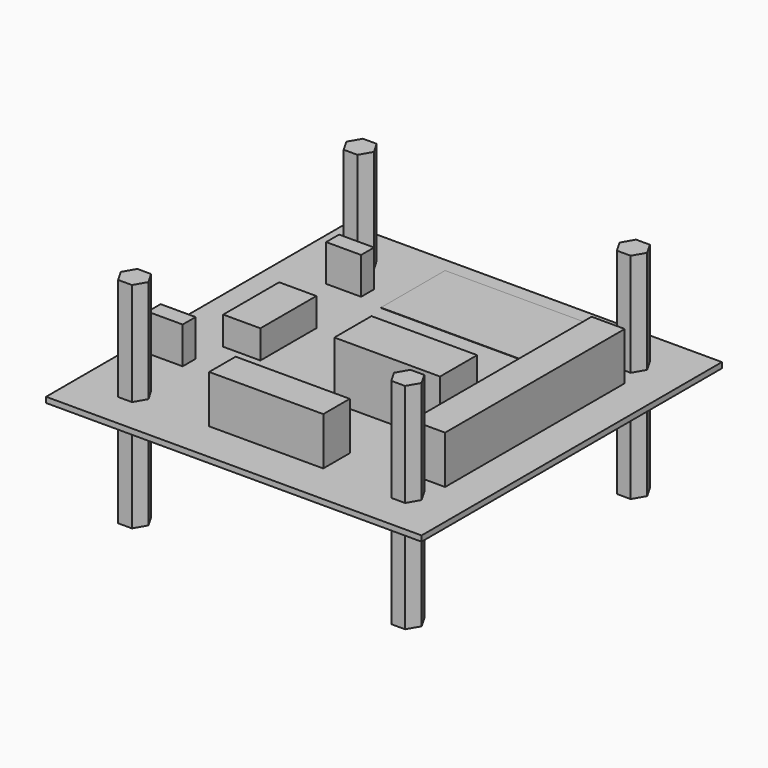
from build123d import *

# Parameters (mm, degrees)
F0_W     = 102
F0_H     = 102
F0_W_2   = 9.5
F0_H_2   = 4.4
F0_W_3   = 10.1
F0_H_3   = 19
F0_W_4   = 31
F0_H_4   = 9
F0_W_5   = 28.7
F0_H_5   = 12.6
F0_W_6   = 9
F0_H_6   = 61
F0_W_7   = 42
F0_H_7   = 21.8
F1_DEPTH = 1.5
F2_DEPTH = 30.2
F3_DEPTH = 28
F4_DEPTH = 0.1
F5_DEPTH = 13
F6_DEPTH = 10
F7_DEPTH = 7.7
F8_DEPTH = 15.7


with BuildPart() as f1:
    # F0 (on Top) → F1 (new body)
    with BuildSketch(Plane.XY):
        with Locations((51, 51)):
            Rectangle(F0_W, F0_H)
        Polygon((10.1472232503, 12.7), (12.0236116251, 15.95), (15.7763883749, 15.95), (17.6527767497, 12.7), (15.7763883749, 9.45), (12.0236116251, 9.45), align=None, mode=Mode.SUBTRACT)
        with Locations((9.15, 31.2)):
            Rectangle(F0_W_2, F0_H_2, mode=Mode.SUBTRACT)
        with Locations((20.05, 50.9)):
            Rectangle(F0_W_3, F0_H_3, mode=Mode.SUBTRACT)
        with Locations((51, 15.5)):
            Rectangle(F0_W_4, F0_H_4, mode=Mode.SUBTRACT)
        Polygon((86.2236116251, 15.95), (89.9763883749, 15.95), (91.8527767497, 12.7), (89.9763883749, 9.45), (86.2236116251, 9.45), (84.3472232503, 12.7), align=None, mode=Mode.SUBTRACT)
        with Locations((63.95, 42.2)):
            Rectangle(F0_W_5, F0_H_5, mode=Mode.SUBTRACT)
        with Locations((18.75, 79.8)):
            Rectangle(F0_W_2, F0_H_2, mode=Mode.SUBTRACT)
        Polygon((15.7763883749, 92.55), (17.6527767497, 89.3), (15.7763883749, 86.05), (12.0236116251, 86.05), (10.1472232503, 89.3), (12.0236116251, 92.55), align=None, mode=Mode.SUBTRACT)
        with Locations((87.5, 51)):
            Rectangle(F0_W_6, F0_H_6, mode=Mode.SUBTRACT)
        with Locations((51, 87.1)):
            Rectangle(F0_W_7, F0_H_7, mode=Mode.SUBTRACT)
        Polygon((89.9763883749, 92.55), (91.8527767497, 89.3), (89.9763883749, 86.05), (86.2236116251, 86.05), (84.3472232503, 89.3), (86.2236116251, 92.55), align=None, mode=Mode.SUBTRACT)
        with Locations((51, 87.1)):
            Rectangle(F0_W_7, F0_H_7)
        with Locations((87.5, 51)):
            Rectangle(F0_W_6, F0_H_6)
        with Locations((63.95, 42.2)):
            Rectangle(F0_W_5, F0_H_5)
        with Locations((51, 15.5)):
            Rectangle(F0_W_4, F0_H_4)
        with Locations((20.05, 50.9)):
            Rectangle(F0_W_3, F0_H_3)
        with Locations((9.15, 31.2)):
            Rectangle(F0_W_2, F0_H_2)
        with Locations((18.75, 79.8)):
            Rectangle(F0_W_2, F0_H_2)
        Polygon((91.8527767497, 12.7), (89.9763883749, 15.95), (86.2236116251, 15.95), (84.3472232503, 12.7), (86.2236116251, 9.45), (89.9763883749, 9.45), align=None)
        Polygon((15.7763883749, 15.95), (12.0236116251, 15.95), (10.1472232503, 12.7), (12.0236116251, 9.45), (15.7763883749, 9.45), (17.6527767497, 12.7), align=None)
        Polygon((15.7763883749, 86.05), (17.6527767497, 89.3), (15.7763883749, 92.55), (12.0236116251, 92.55), (10.1472232503, 89.3), (12.0236116251, 86.05), align=None)
        Polygon((89.9763883749, 86.05), (91.8527767497, 89.3), (89.9763883749, 92.55), (86.2236116251, 92.55), (84.3472232503, 89.3), (86.2236116251, 86.05), align=None)
    extrude(amount=-F1_DEPTH)

    # F0 (on Top) → F2 (join)
    with BuildSketch(Plane.XY):
        Polygon((15.7763883749, 15.95), (12.0236116251, 15.95), (10.1472232503, 12.7), (12.0236116251, 9.45), (15.7763883749, 9.45), (17.6527767497, 12.7), align=None)
        Polygon((15.7763883749, 86.05), (17.6527767497, 89.3), (15.7763883749, 92.55), (12.0236116251, 92.55), (10.1472232503, 89.3), (12.0236116251, 86.05), align=None)
        Polygon((89.9763883749, 86.05), (91.8527767497, 89.3), (89.9763883749, 92.55), (86.2236116251, 92.55), (84.3472232503, 89.3), (86.2236116251, 86.05), align=None)
        Polygon((91.8527767497, 12.7), (89.9763883749, 15.95), (86.2236116251, 15.95), (84.3472232503, 12.7), (86.2236116251, 9.45), (89.9763883749, 9.45), align=None)
    extrude(amount=-F2_DEPTH)

    # F0 (on Top) → F3 (join)
    with BuildSketch(Plane.XY):
        Polygon((15.7763883749, 86.05), (17.6527767497, 89.3), (15.7763883749, 92.55), (12.0236116251, 92.55), (10.1472232503, 89.3), (12.0236116251, 86.05), align=None)
        Polygon((89.9763883749, 86.05), (91.8527767497, 89.3), (89.9763883749, 92.55), (86.2236116251, 92.55), (84.3472232503, 89.3), (86.2236116251, 86.05), align=None)
        Polygon((91.8527767497, 12.7), (89.9763883749, 15.95), (86.2236116251, 15.95), (84.3472232503, 12.7), (86.2236116251, 9.45), (89.9763883749, 9.45), align=None)
        Polygon((15.7763883749, 15.95), (12.0236116251, 15.95), (10.1472232503, 12.7), (12.0236116251, 9.45), (15.7763883749, 9.45), (17.6527767497, 12.7), align=None)
    extrude(amount=F3_DEPTH)

    # F0 (on Top) → F4 (join)
    with BuildSketch(Plane.XY):
        with Locations((51, 87.1)):
            Rectangle(F0_W_7, F0_H_7)
    extrude(amount=F4_DEPTH)

    # F0 (on Top) → F5 (join)
    with BuildSketch(Plane.XY):
        with Locations((51, 15.5)):
            Rectangle(F0_W_4, F0_H_4)
        with Locations((87.5, 51)):
            Rectangle(F0_W_6, F0_H_6)
    extrude(amount=F5_DEPTH)

    # F0 (on Top) → F6 (join)
    with BuildSketch(Plane.XY):
        with Locations((9.15, 31.2)):
            Rectangle(F0_W_2, F0_H_2)
        with Locations((18.75, 79.8)):
            Rectangle(F0_W_2, F0_H_2)
    extrude(amount=F6_DEPTH)

    # F0 (on Top) → F7 (join)
    with BuildSketch(Plane.XY):
        with Locations((20.05, 50.9)):
            Rectangle(F0_W_3, F0_H_3)
    extrude(amount=F7_DEPTH)

    # F0 (on Top) → F8 (join)
    with BuildSketch(Plane.XY):
        with Locations((63.95, 42.2)):
            Rectangle(F0_W_5, F0_H_5)
    extrude(amount=F8_DEPTH)


solid = f1.part
